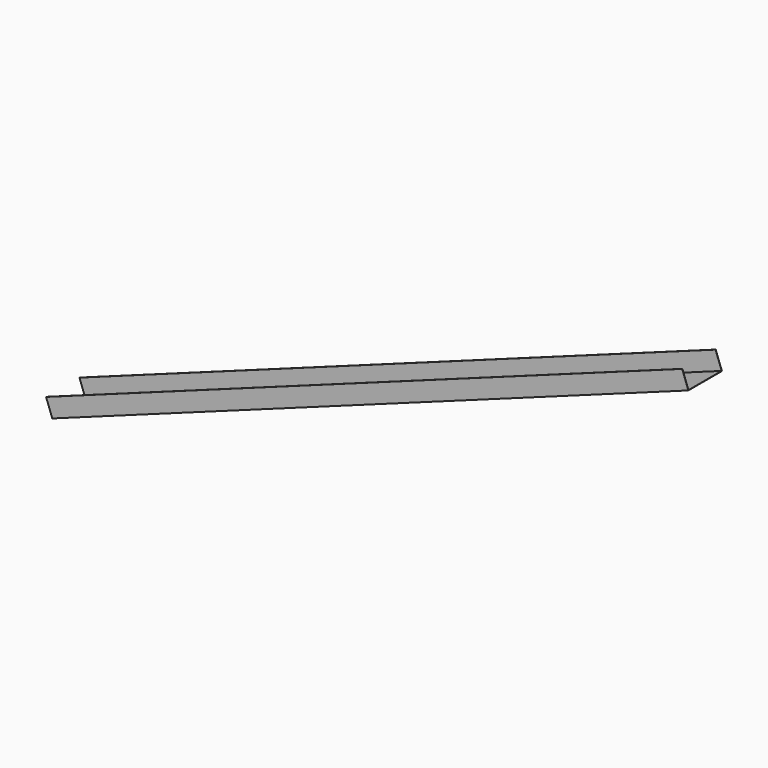
from build123d import *

# Parameters (mm, degrees)
F1_DEPTH = 1500
F2_ANGLE = 20


with BuildPart() as f1:
    # F0 (on Right) → F1 (new body)
    with BuildSketch(Plane.YZ):
        Polygon((46.5, -20), (46.5, 20), (46, 20), (46, 19.5), (46, -19.5), (-46, -19.5), (-46, 19.5), (-46, 20), (-46.5, 20), (-46.5, -20), align=None)
    extrude(amount=F1_DEPTH)


with BuildPart() as f1_1:
    # F2: moved
    add(f1.part.rotate(Axis((0, 0, -19.5), (0, -1, 0)), F2_ANGLE))


solid = f1_1.part
